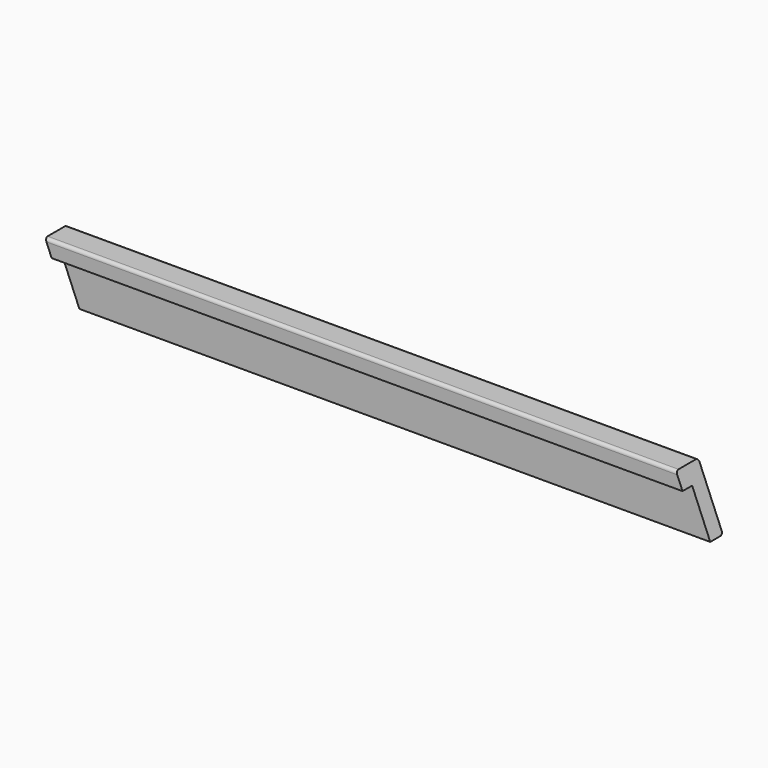
from build123d import *

# Parameters (mm, degrees)
F1_DEPTH = 44
F3_W     = 19
F3_H     = 69
F4_DEPTH = 1035.001
F5_DEPTH = 44.001
F6_R     = 5


with BuildPart() as f1:
    # F0 (on Front) → F1 (new body)
    with BuildSketch(Plane.XZ):
        Polygon((1035, 0), (0, 0), (38.936075, -94), (1035, -94), align=None)
    extrude(amount=-F1_DEPTH)

    # F3 (on face) → F4 (cut, through all)
    with BuildSketch(Plane.YZ.offset(1035)):
        with Locations((9.5, -59.5)):
            Rectangle(F3_W, F3_H)
    extrude(amount=-F4_DEPTH, mode=Mode.SUBTRACT)

    # F2 (on face) → F5 (cut, through all)
    with BuildSketch(Plane.XZ):
        Polygon((996.063925, 0), (1035, -94), (1035, 0), align=None)
    extrude(amount=-F5_DEPTH, mode=Mode.SUBTRACT)

    # F6
    f6_edges = [f1.edges().sort_by_distance(p)[0] for p in [
        (498.031963, 0, 0),
        (498.031963, 44, 0),
        (536.968037, 44, -94),
    ]]
    fillet(f6_edges, radius=F6_R)


solid = f1.part
